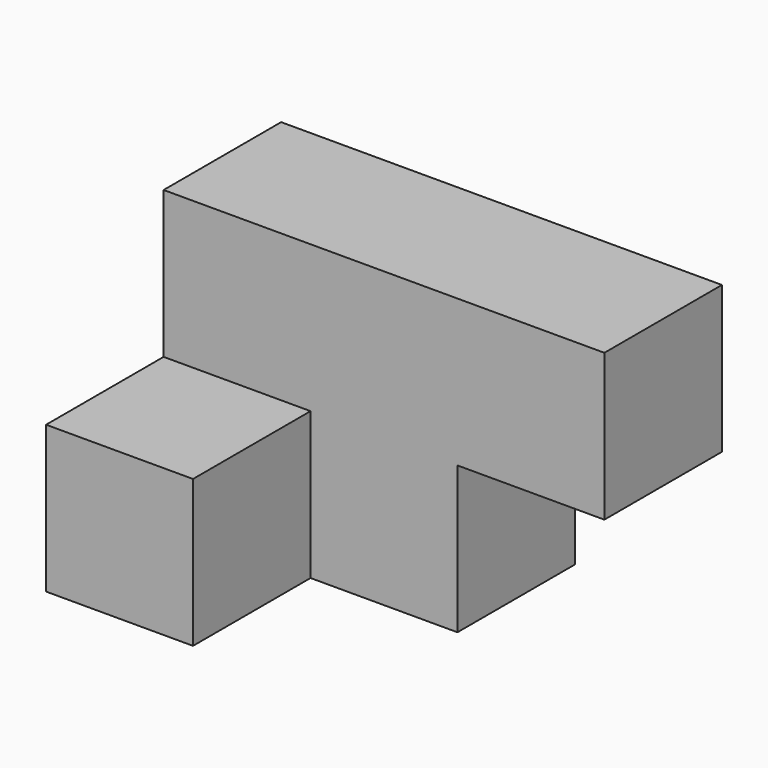
from build123d import *

# Parameters (mm, degrees)
F0_W     = 19.05
F0_H     = 19.05
F1_DEPTH = 19.05
F2_DEPTH = 38.1


with BuildPart() as f1:
    # F0 (on Front) → F1 (new body)
    with BuildSketch(Plane.XZ):
        with Locations((17.353196, 38.18328)):
            Rectangle(F0_W, F0_H)
        with Locations((-1.696804, 38.18328)):
            Rectangle(F0_W, F0_H)
        with Locations((17.353196, 19.13328)):
            Rectangle(F0_W, F0_H)
        with Locations((36.403196, 38.18328)):
            Rectangle(F0_W, F0_H)
    extrude(amount=F1_DEPTH)

    # F0 (on Front) → F2 (join)
    with BuildSketch(Plane.XZ):
        with Locations((-1.696804, 19.13328)):
            Rectangle(F0_W, F0_H)
    extrude(amount=F2_DEPTH)


solid = f1.part
